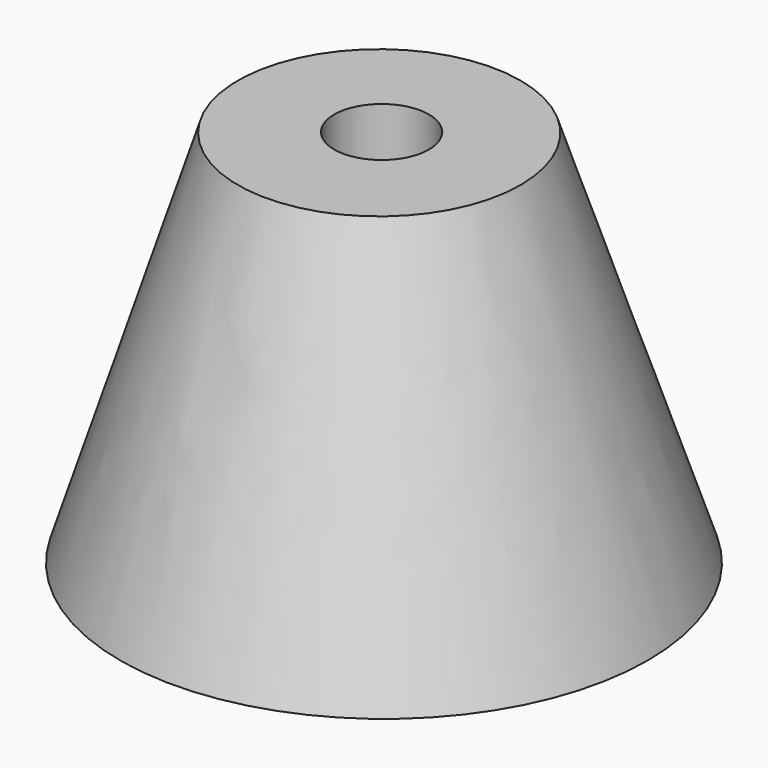
from build123d import *

# Parameters (mm, degrees)
F3_R = 9.4707178816
F0_R = 17.6756643919
F5_D = 6.35


with BuildPart() as f4:
    # F3 (on offset) → F4 section 0
    with BuildSketch(Plane.XY.offset(25.4)):
        with Locations((44.1279187799, 47.2153052688)):
            Circle(F3_R)
    # F0 (on Top) → F4 section 1
    with BuildSketch(Plane.XY):
        with Locations((44.2688390613, 47.4366173148)):
            Circle(F0_R)
    loft()

    # F5 (through all)
    with Locations(Plane(origin=(0, 0, 0), x_dir=(1, 0, 0), z_dir=(0, 0, -1))):
        with Locations((44.1701859236, -47.3621115088)):
            Hole(F5_D / 2)


solid = f4.part
